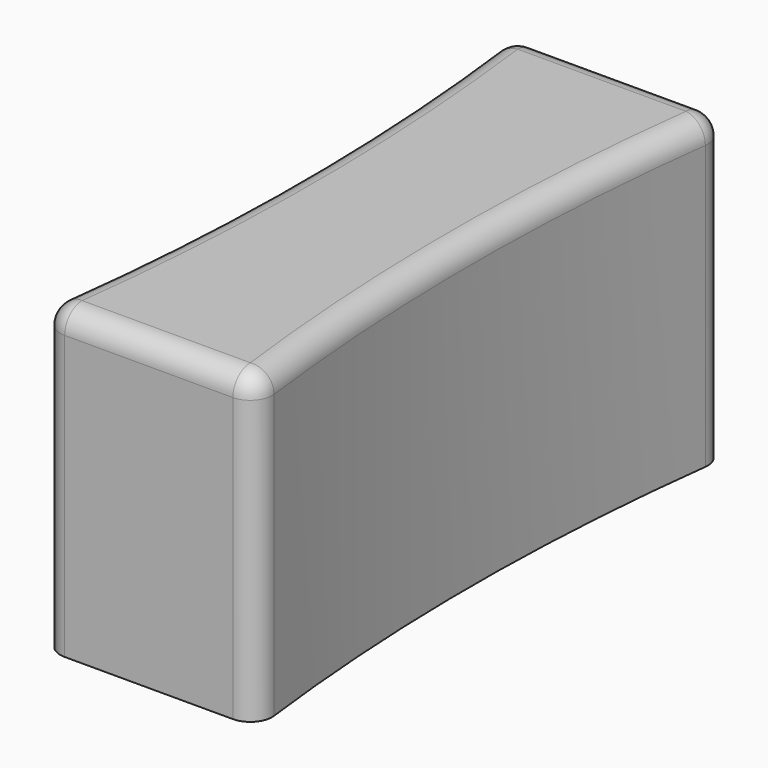
from build123d import *

# Parameters (mm, degrees)
F1_DEPTH = 140
F2_R     = 10


with BuildPart() as f1:
    # F0 (on Top) → F1 (new body)
    with BuildSketch(Plane.XY):
        with BuildLine():
            ThreePointArc((1.466285, 11.237624), (3.89353, 3.380946), (11.389404, 0))
            Line((11.389404, 0), (88.610596, 0))
            ThreePointArc((88.610596, 0), (96.10647, 3.380946), (98.533715, 11.237624))
            ThreePointArc((98.533715, 11.237624), (90.845598, 135), (98.533715, 258.762376))
            ThreePointArc((98.533715, 258.762376), (96.10647, 266.619054), (88.610596, 270))
            Line((88.610596, 270), (11.389404, 270))
            ThreePointArc((11.389404, 270), (3.89353, 266.619054), (1.466285, 258.762376))
            ThreePointArc((1.466285, 258.762376), (9.154402, 135), (1.466285, 11.237624))
        make_face()
    extrude(amount=F1_DEPTH)

    # F2
    f2_edges = [f1.edges().sort_by_distance(p)[0] for p in [
        (9.154402, 135, 140),
        (3.89353, 3.380946, 140),
        (50, 0, 140),
        (96.10647, 3.380946, 140),
        (90.845598, 135, 140),
        (96.10647, 266.619054, 140),
        (50, 270, 140),
        (3.89353, 266.619054, 140),
    ]]
    fillet(f2_edges, radius=F2_R)


solid = f1.part
